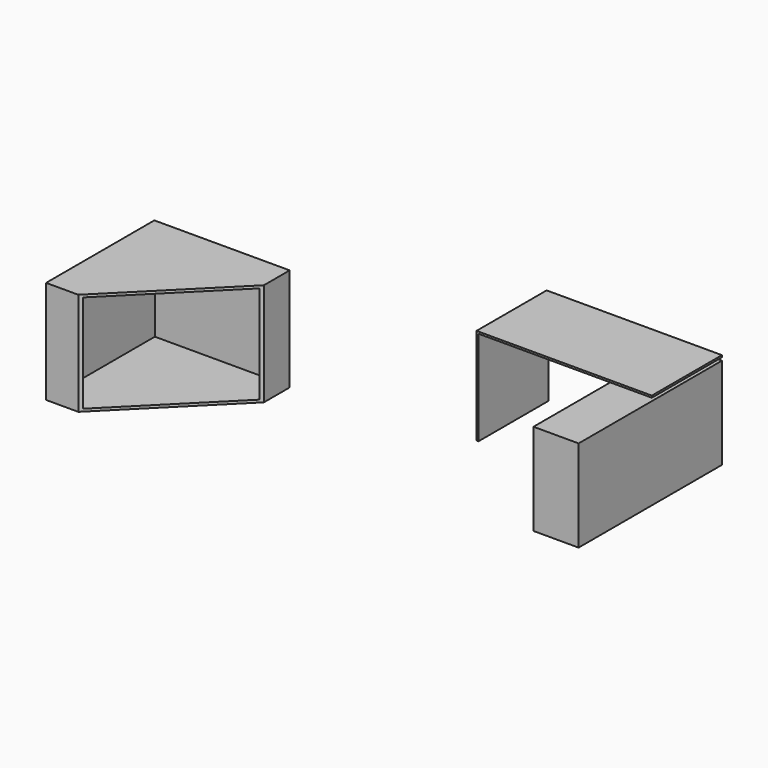
from build123d import *

# Parameters (mm, degrees)
F0_W     = 1010
F0_H     = 680
F0_W_2   = 350
F1_DEPTH = 750
F2_T     = -15
F0_H_2   = 710
F3_DEPTH = 712
F5_DEPTH = 800
F6_T     = -20


with BuildPart() as f1:
    # F0 (on Top) → F1 (new body)
    with BuildSketch(Plane.XY):
        with Locations((389.402885437, 113.3681946993)):
            Rectangle(F0_W, F0_H)
        with Locations((1069.402885437, 113.3681946993)):
            Rectangle(F0_W_2, F0_H)
    extrude(amount=F1_DEPTH)

    # F2
    f2_openings = [f1.faces().sort_by_distance(p)[0] for p in [
        (564.402885, -226.631805, 375),
        (1244.402885, 113.368195, 375),
        (564.402885, 453.368195, 375),
        (564.402885, 113.368195, 0),
    ]]
    offset(amount=F2_T, openings=f2_openings)


with BuildPart() as f3:
    # F0 (on Top) → F3 (new body)
    with BuildSketch(Plane.XY):
        with Locations((1069.402885437, 113.3681946993)):
            Rectangle(F0_W_2, F0_H)
        with Locations((1069.402885437, -581.6318053007)):
            Rectangle(F0_W_2, F0_H_2)
    extrude(amount=F3_DEPTH)


with BuildPart() as f5:
    # F4 (on face) → F5 (new body)
    with BuildSketch(Plane.XY):
        Polygon((-1435.4287287383, -389.1728639603), (-2485.4287287383, -389.1728639603), (-2485.4287287383, -1439.1728639603), (-2235.4287287383, -1439.1728639603), (-1435.4287287383, -639.1728639603), align=None)
    extrude(amount=F5_DEPTH)

    # F6
    f6_openings = [f5.faces().sort_by_distance(p)[0] for p in [
        (-1835.428729, -1039.172864, 400),
    ]]
    offset(amount=F6_T, openings=f6_openings)


solid = Compound([f1.part, f3.part, f5.part])
